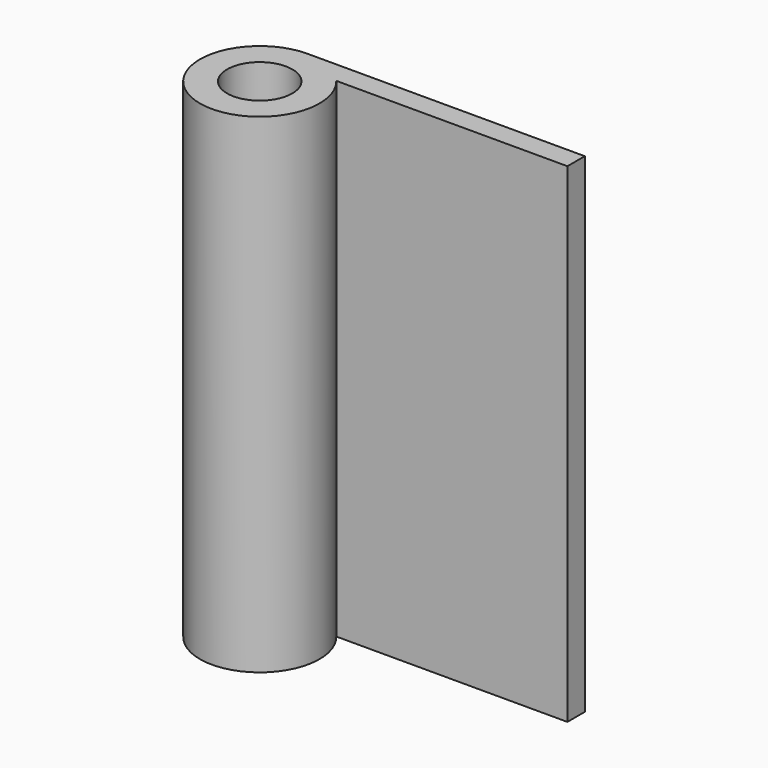
from build123d import *

# Parameters (mm, degrees)
SKETCH_R  = 3
PAD_DEPTH = 45


with BuildPart() as part:
    # Sketch → Pad (new body)
    with BuildSketch(Plane.XY):
        with BuildLine():
            ThreePointArc((0, 5.5), (-2.345208, -4.974937), (4.242641, 3.5))
            Line((25.5, 3.5), (4.242641, 3.5))
            Line((25.5, 5.5), (25.5, 3.5))
            Line((0, 5.5), (25.5, 5.5))
        make_face()
        Circle(SKETCH_R, mode=Mode.SUBTRACT)
    extrude(amount=PAD_DEPTH)


solid = part.part
